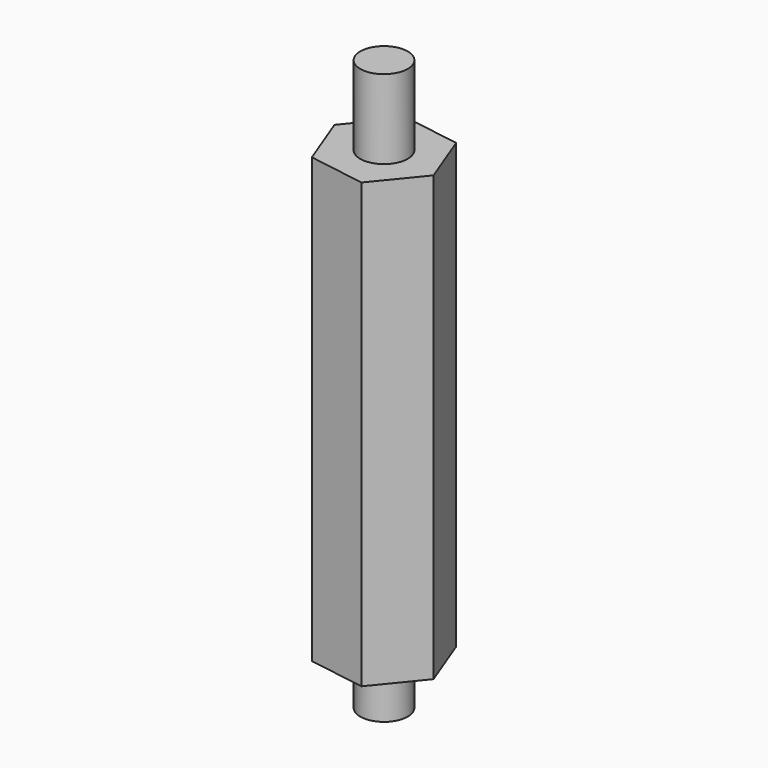
from build123d import *

# Parameters (mm, degrees)
F0_R     = 1.5
F1_DEPTH = 14
F2_DEPTH = 14
F3_R     = 1.5
F4_DEPTH = 3
F5_R     = 1.5
F6_DEPTH = 5


with BuildPart() as f1:
    # F0 (on Top) → F1 (new body, symmetric)
    with BuildSketch(Plane.XY):
        Polygon((3.590729, -0.580228), (2.297857, 2.819549), (-1.292872, 3.399777), (-3.590729, 0.580228), (-2.297857, -2.819549), (1.292872, -3.399777), align=None)
        Circle(F0_R, mode=Mode.SUBTRACT)
    extrude(amount=F1_DEPTH, both=True)

    # F0 (on Top) → F2 (join, symmetric)
    with BuildSketch(Plane.XY):
        Circle(F0_R)
    extrude(amount=F2_DEPTH, both=True)

    # F3 (on face) → F4 (join)
    with BuildSketch(Plane(origin=(0, 0, -14), x_dir=(1, 0, 0), z_dir=(0, 0, -1))):
        Circle(F3_R)
    extrude(amount=F4_DEPTH)

    # F5 (on face) → F6 (join)
    with BuildSketch(Plane.XY.offset(14)):
        Circle(F5_R)
    extrude(amount=F6_DEPTH)


solid = f1.part
